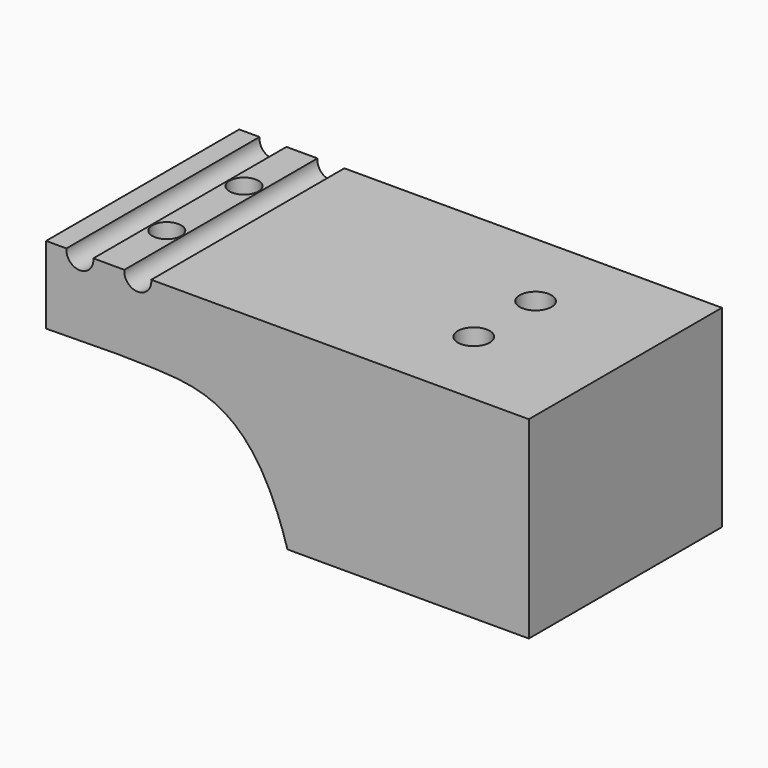
from build123d import *

# Parameters (mm, degrees)
F0_W     = 25
F0_H     = 25
F0_R     = 1.65
F1_DEPTH = 20
F2_DEPTH = 25
F3_R     = 1.4
F4_DEPTH = 12.5
F6_D     = 3


with BuildPart() as f1:
    # F0 (on Top) → F1 (new body)
    with BuildSketch(Plane.XY):
        Rectangle(F0_W, F0_H)
        with Locations((0, -4)):
            Circle(F0_R, mode=Mode.SUBTRACT)
        with Locations((0, 4)):
            Circle(F0_R, mode=Mode.SUBTRACT)
    extrude(amount=F1_DEPTH)

    # F2 (add): a face of the model
    f2_faces = [f1.faces().sort_by_distance(p)[0] for p in [
        (-12.5, 0, 10),
    ]]
    extrude(f2_faces, amount=F2_DEPTH)

    # F3 (on Front) → F4 (cut, symmetric)
    with BuildSketch(Plane.XZ):
        with BuildLine():
            add(Edge.make_bspline(
                [(-37.5, 12), (-33.778607057, 12.0509013714), (-25.1001296566, 12.3187041592), (-15.8211888541, 11.1248698681), (-12.5, 0)],
                knots=[0, 0, 0, 0, 0.44474528, 1, 1, 1, 1], degree=3))
            Line((-37.5, 12), (-37.5, 0))
            Line((-37.5, 0), (-12.5, 0))
        make_face()
        with Locations((-34, 19.8526792228)):
            Circle(F3_R)
        with Locations((-28, 19.8505632579)):
            Circle(F3_R)
    extrude(amount=F4_DEPTH, both=True, mode=Mode.SUBTRACT)

    # F6 (through all)
    with Locations(Plane(origin=(0, 0, 0), x_dir=(1, 0, 0), z_dir=(0, 0, -1))):
        with Locations((-31, 5), (-31, -5)):
            Hole(F6_D / 2)


solid = f1.part
